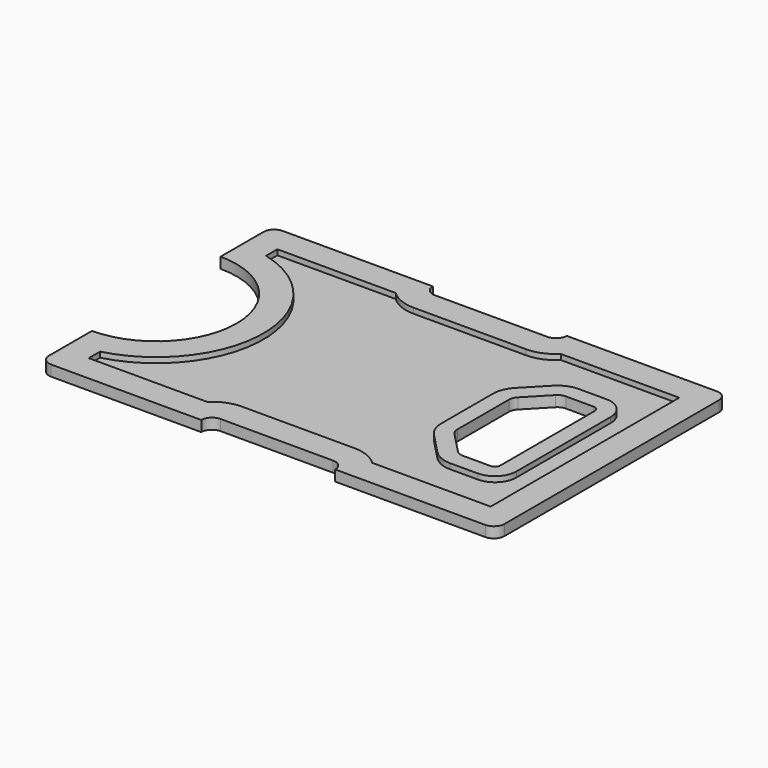
from build123d import *

# Parameters (mm, degrees)
F1_DEPTH = 2
F3_DEPTH = 1


with BuildPart() as f1:
    # F0 (on Top) → F1 (new body)
    with BuildSketch(Plane.XY):
        with BuildLine():
            Line((12.5, -27), (40.5, -27))
            ThreePointArc((40.5, -27), (41.914214, -26.414214), (42.5, -25))
            Line((42.5, -25), (42.5, 25))
            ThreePointArc((42.5, 25), (41.914214, 26.414214), (40.5, 27))
            Line((40.5, 27), (12.5, 27))
            ThreePointArc((12.5, 27), (11.914214, 25.585786), (10.5, 25))
            Line((10.5, 25), (-10.5, 25))
            ThreePointArc((-10.5, 25), (-11.914214, 25.585786), (-12.5, 27))
            Line((-12.5, 27), (-40.5, 27))
            ThreePointArc((-40.5, 27), (-41.914214, 26.414214), (-42.5, 25))
            Line((-42.5, 25), (-42.5, 15))
            ThreePointArc((-42.5, 15), (-27.5, 0), (-42.5, -15))
            Line((-42.5, -15), (-42.5, -25))
            ThreePointArc((-42.5, -25), (-41.914214, -26.414214), (-40.5, -27))
            Line((-40.5, -27), (-12.5, -27))
            ThreePointArc((-12.5, -27), (-11.914214, -25.585786), (-10.5, -25))
            Line((-10.5, -25), (10.5, -25))
            ThreePointArc((10.5, -25), (11.914213, -25.585787), (12.5, -27))
        make_face()
        with BuildLine():
            Line((30.5, 11), (30.5, 0))
            Line((30.5, 0), (30.5, -11))
            ThreePointArc((30.5, -11), (30.207107, -11.707107), (29.5, -12))
            Line((29.5, -12), (24.350781, -12))
            ThreePointArc((24.350781, -12), (23.567891, -11.840403), (22.909948, -11.387083))
            Line((22.909948, -11.387083), (19.059167, -7.387083))
            ThreePointArc((19.059167, -7.387083), (18.645052, -6.747775), (18.5, -6))
            Line((18.5, -6), (18.5, 0))
            Line((18.5, 0), (18.5, 6))
            ThreePointArc((18.5, 6), (18.645052, 6.747775), (19.059167, 7.387083))
            Line((19.059167, 7.387083), (22.909948, 11.387083))
            ThreePointArc((22.909948, 11.387083), (23.567891, 11.840403), (24.350781, 12))
            Line((24.350781, 12), (29.5, 12))
            ThreePointArc((29.5, 12), (30.207107, 11.707107), (30.5, 11))
        make_face(mode=Mode.SUBTRACT)
    extrude(amount=F1_DEPTH)

    # F2 (on face) → F3 (cut)
    with BuildSketch(Plane.XY.offset(2)):
        with BuildLine():
            Line((-10.5, -20), (10.5, -20))
            ThreePointArc((10.5, -20), (13.145751, -20.519259), (15.398979, -22))
            Line((15.398979, -22), (37.5, -22))
            Line((37.5, -22), (37.5, 22))
            Line((37.5, 22), (15.398979, 22))
            ThreePointArc((15.398979, 22), (13.145751, 20.519259), (10.5, 20))
            Line((10.5, 20), (-10.5, 20))
            ThreePointArc((-10.5, 20), (-13.145751, 20.519259), (-15.398979, 22))
            Line((-15.398979, 22), (-37.5, 22))
            Line((-37.5, 22), (-37.5, 19.364917))
            ThreePointArc((-37.5, 19.364917), (-22.5, 0), (-37.5, -19.364917))
            Line((-37.5, -19.364917), (-37.5, -22))
            Line((-37.5, -22), (-15.398979, -22))
            ThreePointArc((-15.398979, -22), (-13.145751, -20.519259), (-10.5, -20))
        make_face()
        with BuildLine():
            ThreePointArc((29.5, 15), (32.328427, 13.828427), (33.5, 11))
            Line((33.5, 11), (33.5, -11))
            ThreePointArc((33.5, -11), (32.328427, -13.828427), (29.5, -15))
            Line((29.5, -15), (24.350781, -15))
            ThreePointArc((24.350781, -15), (22.393556, -14.601008), (20.748698, -13.467708))
            Line((20.748698, -13.467708), (16.897917, -9.467708))
            ThreePointArc((16.897917, -9.467708), (15.862629, -7.869437), (15.5, -6))
            Line((15.5, -6), (15.5, 6))
            ThreePointArc((15.5, 6), (15.862629, 7.869437), (16.897917, 9.467708))
            Line((16.897917, 9.467708), (20.748698, 13.467708))
            ThreePointArc((20.748698, 13.467708), (22.393556, 14.601008), (24.350781, 15))
            Line((24.350781, 15), (29.5, 15))
        make_face(mode=Mode.SUBTRACT)
    extrude(amount=-F3_DEPTH, mode=Mode.SUBTRACT)


solid = f1.part
